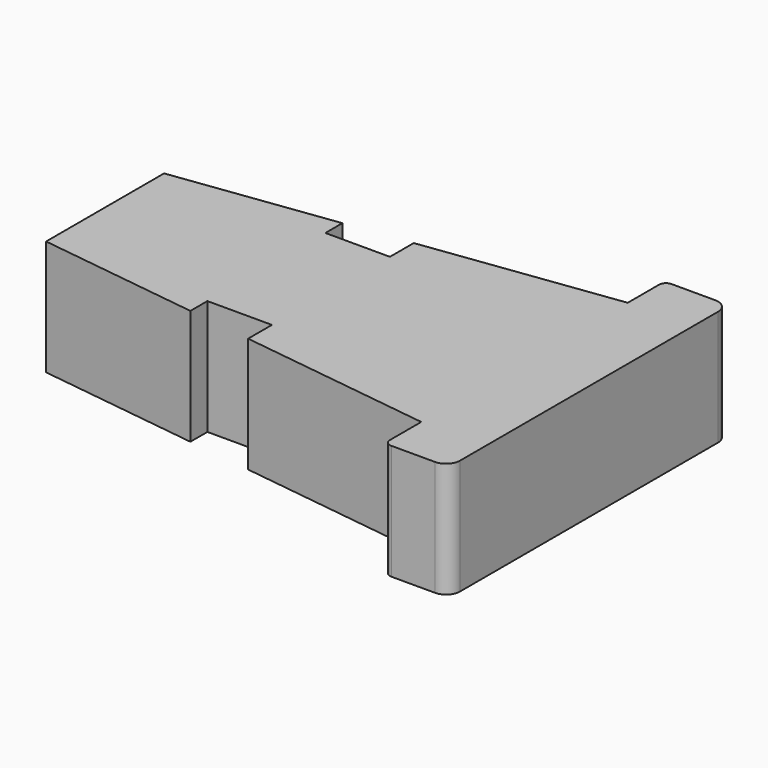
from build123d import *

# Parameters (mm, degrees)
F1_DEPTH = 25


with BuildPart() as f1:
    # F0 (on Top) → F1 (new body)
    with BuildSketch(Plane.XY):
        with BuildLine():
            Line((64.009178, -25.81994), (64.009178, 44.18006))
            ThreePointArc((64.009178, 44.18006), (63.130498, 46.301381), (61.009178, 47.18006))
            Line((61.009178, 47.18006), (51.509178, 47.18006))
            ThreePointArc((51.509178, 47.18006), (50.448518, 46.74072), (50.009178, 45.68006))
            Line((50.009178, 45.68006), (50.009178, 37.18006))
            Line((50.009178, 37.18006), (8.009178, 31.641599))
            Line((8.009178, 31.641599), (8.009178, 25.18006))
            Line((8.009178, 25.18006), (-5.990822, 25.18006))
            Line((-5.990822, 25.18006), (-5.990822, 29.795445))
            Line((-5.990822, 29.795445), (-40.990822, 25.18006))
            Line((-40.990822, 25.18006), (-40.990822, 9.18006))
            Line((-40.990822, 9.18006), (-40.990822, -6.81994))
            Line((-40.990822, -6.81994), (-5.990822, -11.435324))
            Line((-5.990822, -11.435324), (-5.990822, -6.81994))
            Line((-5.990822, -6.81994), (8.009178, -6.81994))
            Line((8.009178, -6.81994), (8.009178, -13.281478))
            Line((8.009178, -13.281478), (50.009178, -18.81994))
            Line((50.009178, -18.81994), (50.009178, -27.31994))
            ThreePointArc((50.009178, -27.31994), (50.448518, -28.3806), (51.509178, -28.81994))
            Line((51.509178, -28.81994), (61.009178, -28.81994))
            ThreePointArc((61.009178, -28.81994), (63.130498, -27.94126), (64.009178, -25.81994))
        make_face()
    extrude(amount=F1_DEPTH)


solid = f1.part
